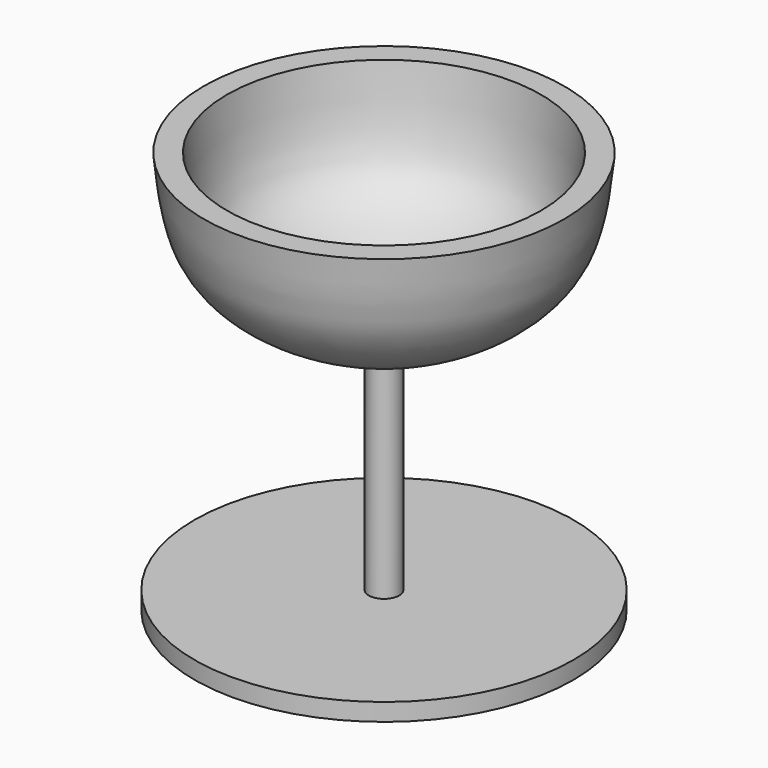
from build123d import *


with BuildPart() as f1:
    # F0 (on Front) → F1 (revolve)
    with BuildSketch(Plane.XZ):
        with BuildLine():
            Line((-36.0045023263, 0), (0, 0))
            Line((0, 0), (0, 47.3225265741))
            Line((0, 47.3225265741), (-2.6714450214, 47.3225265741))
            add(Edge.make_bspline(
                [(-29.8311356455, 76.4539986849), (-29.2989716649, 70.6352231057), (-28.3357085084, 60.1027324923), (-18.9353962678, 53.3152355224), (-8.5435942404, 49.4862124237), (-2.6714450214, 47.3225265741)],
                knots=[0, 0, 0, 0, 0.3493338694, 0.6323247305, 1, 1, 1, 1], degree=3))
            Line((-29.8311356455, 76.4539986849), (-34.2264994979, 76.4539986849))
            add(Edge.make_bspline(
                [(-2.889250638, 44.0055020154), (-8.4850245518, 45.7981994756), (-19.2999270625, 49.2629299243), (-32.4249567616, 59.2377059697), (-33.616342724, 70.6230864285), (-34.2264994979, 76.4539986849)],
                knots=[0, 0, 0, 0, 0.3434299501, 0.6637440123, 1, 1, 1, 1], degree=3))
            Line((-2.889250638, 44.0055020154), (-2.889250638, 3.3337501809))
            Line((-2.889250638, 3.3337501809), (-36.0045023263, 3.3337501809))
            Line((-36.0045023263, 3.3337501809), (-36.0045023263, 0))
        make_face()
    revolve(axis=Axis((0, 0, 23.6612632871), (0, 0, -1)))


solid = f1.part
